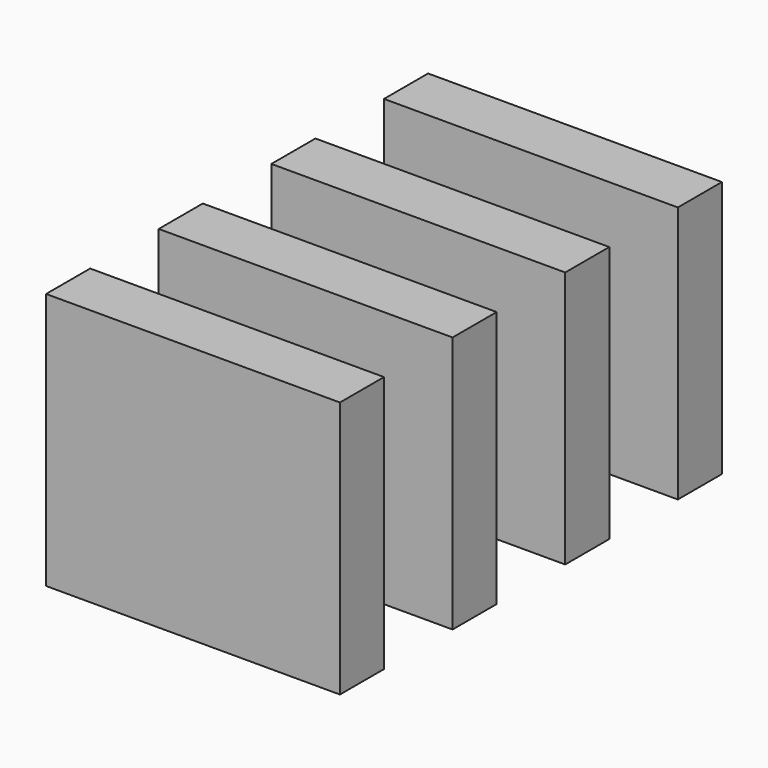
from build123d import *

# Parameters (mm, degrees)
BOX085_W     = 24
BOX085_H     = 4.5
BOX085_DEPTH = 21
BOX086_W     = 24
BOX086_H     = 4.5
BOX086_DEPTH = 21
BOX087_W     = 24
BOX087_H     = 4.5
BOX087_DEPTH = 21
BOX084_W     = 24
BOX084_H     = 4.5
BOX084_DEPTH = 21


with BuildPart() as cube055:
    # Box085 → Box085 (new body)
    with BuildSketch(Plane(origin=(13.5, 27.5, 0), x_dir=(1, 0, 0), z_dir=(0, 0, 1))):
        with Locations((12, 2.25)):
            Rectangle(BOX085_W, BOX085_H)
    extrude(amount=BOX085_DEPTH)


with BuildPart() as cube056:
    # Box086 → Box086 (new body)
    with BuildSketch(Plane(origin=(13.5, 39, 0), x_dir=(1, 0, 0), z_dir=(0, 0, 1))):
        with Locations((12, 2.25)):
            Rectangle(BOX086_W, BOX086_H)
    extrude(amount=BOX086_DEPTH)


with BuildPart() as cube057:
    # Box087 → Box087 (new body)
    with BuildSketch(Plane(origin=(13.5, 50.5, 0), x_dir=(1, 0, 0), z_dir=(0, 0, 1))):
        with Locations((12, 2.25)):
            Rectangle(BOX087_W, BOX087_H)
    extrude(amount=BOX087_DEPTH)


with BuildPart() as fusion067:
    # Box084 → Box084 (new body)
    with BuildSketch(Plane(origin=(13.5, 16, 0), x_dir=(1, 0, 0), z_dir=(0, 0, 1))):
        with Locations((12, 2.25)):
            Rectangle(BOX084_W, BOX084_H)
    extrude(amount=BOX084_DEPTH)

    # Fusion067: union Cube055, Cube056, Cube057
    add(cube055.part)
    add(cube056.part)
    add(cube057.part)


solid = fusion067.part
